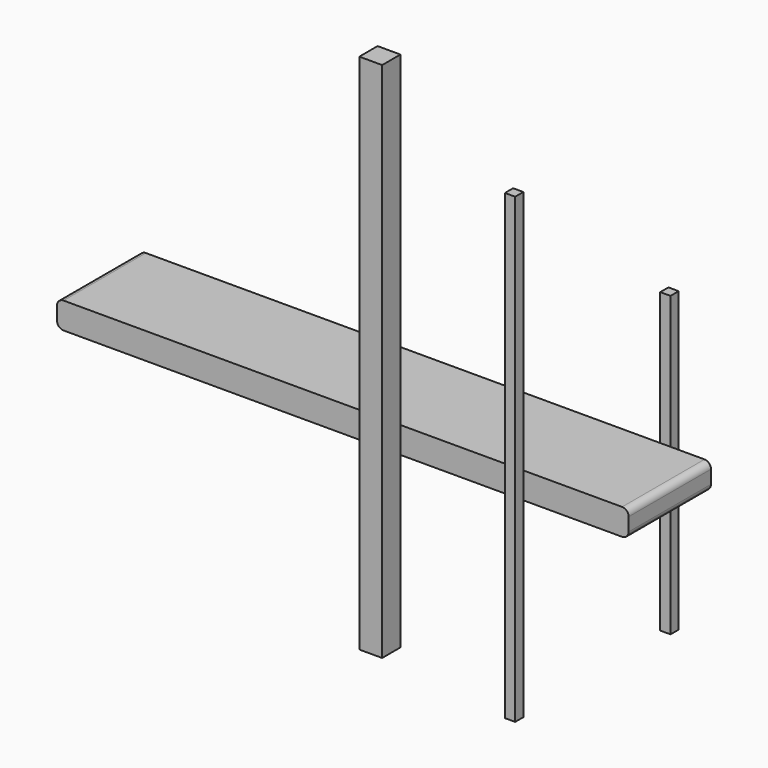
from build123d import *

# Parameters (mm, degrees)
F0_W     = 88.9
F0_H     = 88.9
F1_DEPTH = 2032
F2_W     = 2225.222164
F2_H     = 102.499093
F3_DEPTH = 400.812
F4_R     = 25.4
F0_W_2   = 39.877746
F0_H_2   = 39.877975
F5_DEPTH = 1160.018
F0_W_3   = 39.87546
F0_H_3   = 39.87546
F6_DEPTH = 1799.844


with BuildPart() as f1:
    # F0 (on Top) → F1 (new body)
    with BuildSketch(Plane.XY):
        with Locations((-766.845588, -475.234)):
            Rectangle(F0_W, F0_H)
    extrude(amount=F1_DEPTH)


with BuildPart() as f3:
    # F2 (on Front) → F3 (new body)
    with BuildSketch(Plane.XZ):
        with Locations((-970.624469, 691.075546)):
            Rectangle(F2_W, F2_H)
    extrude(amount=F3_DEPTH)

    # F4
    f4_edges = [f3.edges().sort_by_distance(p)[0] for p in [
        (-2083.235551, -200.406, 742.325093),
        (141.986613, -200.406, 742.325093),
        (-2083.235551, -200.406, 639.826),
        (141.986613, -200.406, 639.826),
    ]]
    fillet(f4_edges, radius=F4_R)


with BuildPart() as f5:
    # F0 (on Top) → F5 (new body)
    with BuildSketch(Plane.XY):
        with Locations((-155.069677, 169.19905)):
            Rectangle(F0_W_2, F0_H_2)
    extrude(amount=F5_DEPTH)


with BuildPart() as f6:
    # F0 (on Top) → F6 (new body)
    with BuildSketch(Plane.XY):
        with Locations((-163.718322, -575.781667)):
            Rectangle(F0_W_3, F0_H_3)
    extrude(amount=F6_DEPTH)


solid = Compound([f1.part, f3.part, f5.part, f6.part])
